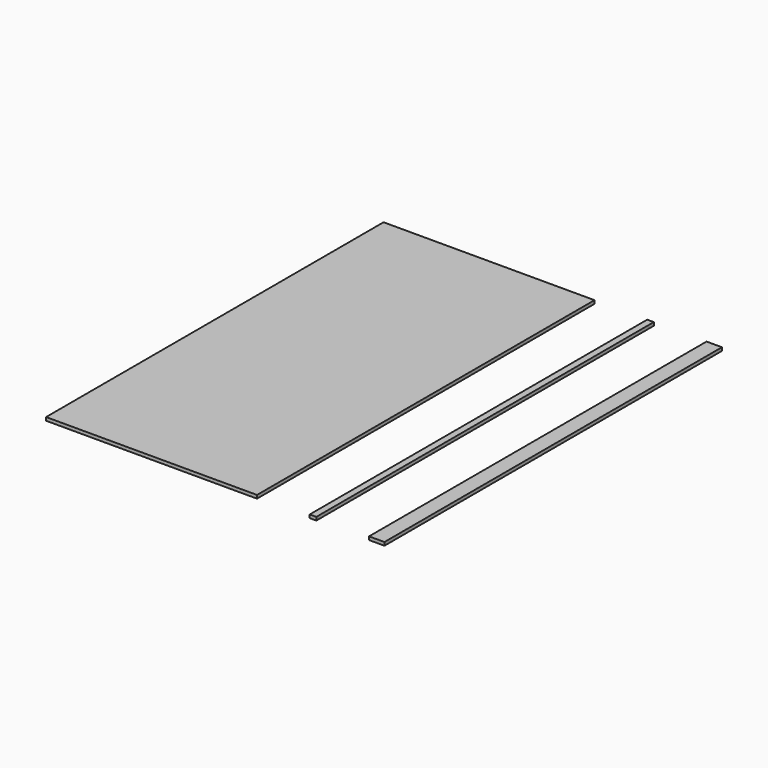
from build123d import *

# Parameters (mm, degrees)
F0_W     = 1219.2
F0_H     = 2438.4
F0_W_2   = 38.1
F0_W_3   = 88.9
F1_DEPTH = 19.05


with BuildPart() as f1:
    # F0 (on Top) → F1 (new body)
    with BuildSketch(Plane.XY):
        with Locations((609.6, 1219.2)):
            Rectangle(F0_W, F0_H)
        with Locations((1543.05, 1219.2)):
            Rectangle(F0_W_2, F0_H)
        with Locations((1911.35, 1219.2)):
            Rectangle(F0_W_3, F0_H)
    extrude(amount=F1_DEPTH)


solid = f1.part
